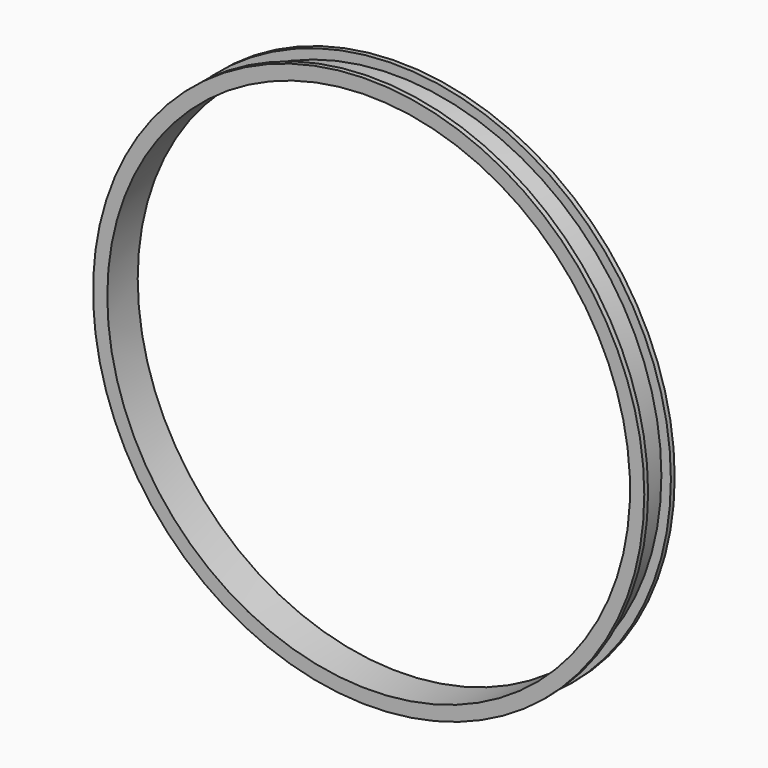
from build123d import *

# Parameters (mm, degrees)
F0_R     = 368.3
F1_DEPTH = 50.8
F2_D     = 698.5
F3_T     = -6.35


with BuildPart() as f1:
    # F0 (on Front) → F1 (new body)
    with BuildSketch(Plane.XZ):
        Circle(F0_R)
    extrude(amount=F1_DEPTH)

    # F2 (through all)
    with Locations(Plane(origin=(0, 0, 0), x_dir=(1, 0, 0), z_dir=(0, 1, 0))):
        with Locations((0, 0)):
            Hole(F2_D / 2)

    # F3
    f3_openings = [f1.faces().sort_by_distance(p)[0] for p in [
        (-368.3, -25.4, 0),
    ]]
    offset(amount=F3_T, openings=f3_openings)


solid = f1.part
